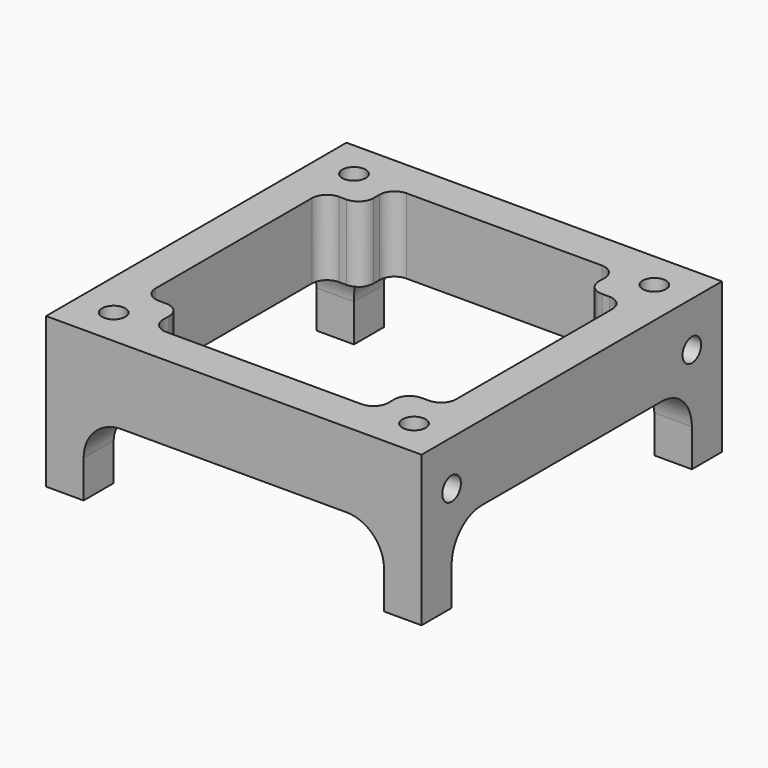
from build123d import *

# Parameters (mm, degrees)
SKETCH205_W             = 50
SKETCH205_H             = 50
PAD035_DEPTH            = 20
POCKET171_DEPTH         = 20.001
POCKET172_DEPTH         = 50.001
POCKET173_DEPTH         = 50.001
SKETCH209_R             = 1.55
POCKET174_DEPTH         = 5
SKETCH210_R             = 1.55
POCKET175_DEPTH         = 3
BODY036_PLACEMENT_ANGLE = 90


with BuildPart() as part:
    # Sketch205 → Pad035 (new body)
    with BuildSketch(Plane.XY):
        Rectangle(SKETCH205_W, SKETCH205_H)
    extrude(amount=PAD035_DEPTH)

    # Sketch206 (on Face6 of Pad035) → Pocket171 (cut, through all)
    with BuildSketch(Plane.XY.offset(20)):
        with BuildLine():
            Line((-18, 15), (-17, 15))
            ThreePointArc((-17, 15), (-15.585786, 15.585786), (-15, 17))
            Line((-15, 17), (-15, 18))
            ThreePointArc((-13, 20), (-14.414214, 19.414214), (-15, 18))
            Line((-13, 20), (13, 20))
            ThreePointArc((15, 18), (14.414214, 19.414214), (13, 20))
            Line((15, 18), (15, 17))
            ThreePointArc((15, 17), (15.585786, 15.585786), (17, 15))
            Line((17, 15), (18, 15))
            ThreePointArc((20, 13), (19.414214, 14.414214), (18, 15))
            Line((20, 13), (20, -13))
            ThreePointArc((18, -15), (19.414214, -14.414214), (20, -13))
            Line((18, -15), (17, -15))
            ThreePointArc((17, -15), (15.585786, -15.585786), (15, -17))
            Line((15, -17), (15, -18))
            ThreePointArc((13, -20), (14.414214, -19.414214), (15, -18))
            Line((13, -20), (-13, -20))
            ThreePointArc((-15, -18), (-14.414214, -19.414214), (-13, -20))
            Line((-15, -18), (-15, -17))
            ThreePointArc((-15, -17), (-15.585786, -15.585786), (-17, -15))
            Line((-17, -15), (-18, -15))
            ThreePointArc((-20, -13), (-19.414214, -14.414214), (-18, -15))
            Line((-20, -13), (-20, 13))
            ThreePointArc((-18, 15), (-19.414214, 14.414214), (-20, 13))
        make_face()
    extrude(amount=-POCKET171_DEPTH, mode=Mode.SUBTRACT)

    # Sketch207 (on Face3 of Pocket171) → Pocket172 (cut, through all)
    with BuildSketch(Plane.YZ.offset(25)):
        with BuildLine():
            Line((-15, 10), (15, 10))
            ThreePointArc((20, 5), (18.535534, 8.535534), (15, 10))
            Line((20, 5), (20, 0))
            Line((20, 0), (-20, 0))
            Line((-20, 0), (-20, 5))
            ThreePointArc((-15, 10), (-18.535534, 8.535534), (-20, 5))
        make_face()
    extrude(amount=-POCKET172_DEPTH, mode=Mode.SUBTRACT)

    # Sketch208 (on Face6 of Pocket171) → Pocket173 (cut, through all)
    with BuildSketch(Plane.XZ.offset(25)):
        with BuildLine():
            Line((-15, 10), (15, 10))
            ThreePointArc((20, 5), (18.535534, 8.535534), (15, 10))
            Line((20, 5), (20, 0))
            Line((20, 0), (-20, 0))
            Line((-20, 0), (-20, 5))
            ThreePointArc((-15, 10), (-18.535534, 8.535534), (-20, 5))
        make_face()
    extrude(amount=-POCKET173_DEPTH, mode=Mode.SUBTRACT)

    # Sketch209 → Pocket174 (cut)
    with BuildSketch(Plane.XY.offset(20)):
        with Locations((-20, 20)):
            Circle(SKETCH209_R)
        with Locations((20, 20)):
            Circle(SKETCH209_R)
        with Locations((20, -20)):
            Circle(SKETCH209_R)
        with Locations((-20, -20)):
            Circle(SKETCH209_R)
    extrude(amount=-POCKET174_DEPTH, mode=Mode.SUBTRACT)

    # Sketch210 (on Face27 of Pocket174) → Pocket175 (cut)
    with BuildSketch(Plane.XZ.offset(25)):
        with Locations((-20, 14)):
            Circle(SKETCH210_R)
        with Locations((20, 14)):
            Circle(SKETCH210_R)
    extrude(amount=-POCKET175_DEPTH, mode=Mode.SUBTRACT)


with BuildPart() as part_1:
    # Body036 placement: moved
    add(part.part.moved(Location((145, 85, 0))).rotate(Axis((145, 85, 0), (0, 0, 1)), BODY036_PLACEMENT_ANGLE))


solid = part_1.part
